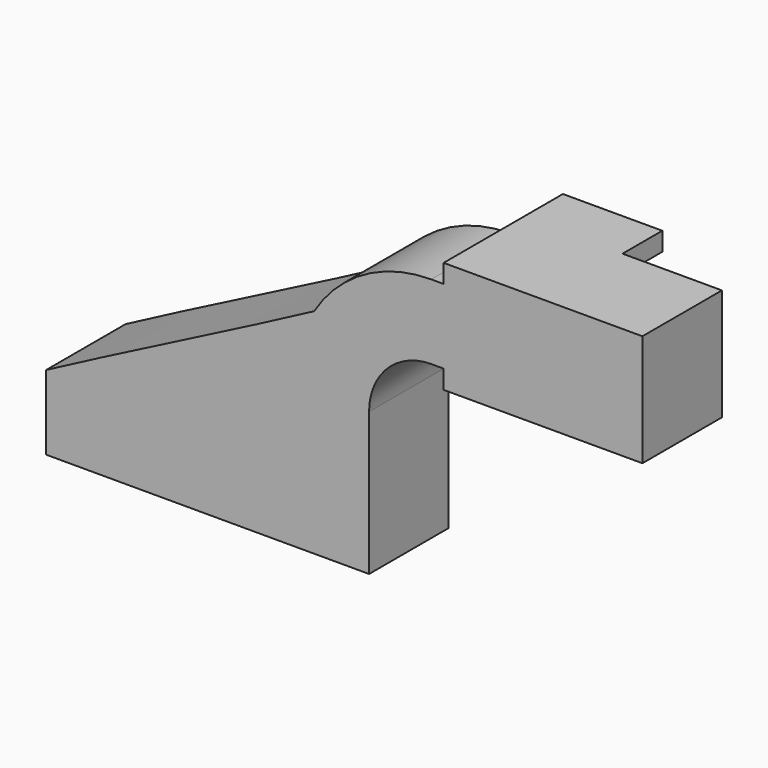
from build123d import *

# Parameters (mm, degrees)
F0_W     = 25.4
F0_H     = 4.7498
F1_DEPTH = 12.7
F0_H_2   = 19.05
F0_H_3   = 4.7752
F2_DEPTH = 25.4


with BuildPart() as f1:
    # F0 (on Front) → F1 (new body, symmetric)
    with BuildSketch(Plane.XZ):
        with Locations((73.025, 64.3001)):
            Rectangle(F0_W, F0_H)
    extrude(amount=F1_DEPTH, both=True)

    # F0 (on Front) → F2 (join)
    with BuildSketch(Plane.XZ):
        Polygon((-41.275, 9.525), (-41.275, -9.525), (41.275, -9.525), (41.275, 9.525), (22.225, 9.525), align=None)
        with BuildLine():
            add(Edge.make_bspline(
                [(-41.275, 9.525), (-19.1195043274, 21.3203000187), (5.1382319655, 33.2387329839), (27.2392741904, 45.0308435421)],
                knots=[0, 0, 0, 0, 75.2991090205, 75.2991090205, 75.2991090205, 75.2991090205], degree=3))
            Line((-41.275, 9.525), (22.225, 9.525))
            Line((22.225, 9.525), (22.225, 27.0002))
            ThreePointArc((22.225, 27.0002), (23.5019114666, 36.3576442584), (27.2392741904, 45.0308435421))
        make_face()
        with BuildLine():
            Line((22.225, 9.525), (41.275, 9.525))
            Line((41.275, 9.525), (41.275, 27.0002))
            ThreePointArc((41.275, 27.0002), (45.9246798487, 38.2255201513), (57.15, 42.8752))
            Line((57.15, 42.8752), (60.325, 42.8752))
            Line((60.325, 42.8752), (60.325, 61.9252))
            Line((60.325, 61.9252), (57.15, 61.9252))
            add(Edge.make_bspline(
                [(27.2392741904, 45.0308435421), (37.8659294652, 50.7007432957), (47.9939802099, 56.341438664), (57.15, 61.9252)],
                knots=[75.2991090205, 75.2991090205, 75.2991090205, 75.2991090205, 111.5045361635, 111.5045361635, 111.5045361635, 111.5045361635], degree=3))
            ThreePointArc((27.2392741904, 45.0308435421), (23.5019114666, 36.3576442584), (22.225, 27.0002))
            Line((22.225, 27.0002), (22.225, 9.525))
        make_face()
        with BuildLine():
            ThreePointArc((57.15, 61.9252), (39.9739207138, 57.4097038656), (27.2392741904, 45.0308435421))
            add(Edge.make_bspline(
                [(27.2392741904, 45.0308435421), (37.8659294652, 50.7007432957), (47.9939802099, 56.341438664), (57.15, 61.9252)],
                knots=[75.2991090205, 75.2991090205, 75.2991090205, 75.2991090205, 111.5045361635, 111.5045361635, 111.5045361635, 111.5045361635], degree=3))
        make_face()
        with Locations((73.025, 52.4002)):
            Rectangle(F0_W, F0_H_2)
        with Locations((73.025, 64.3001)):
            Rectangle(F0_W, F0_H)
        with Locations((73.025, 40.4876)):
            Rectangle(F0_W, F0_H_3)
        Polygon((85.725, 66.675), (85.725, 61.9252), (85.725, 42.8752), (85.725, 38.1), (111.125, 38.1), (111.125, 66.675), align=None)
    extrude(amount=F2_DEPTH)


solid = f1.part
